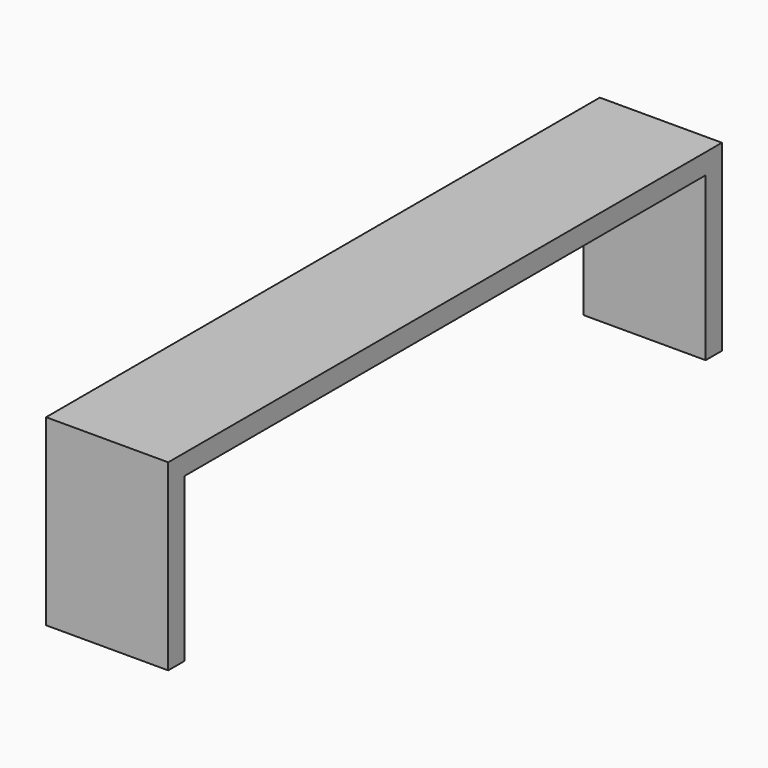
from build123d import *

# Parameters (mm, degrees)
F0_W     = 457.2
F0_H     = 2438.4
F1_DEPTH = 609.6
F2_T     = 76.2


with BuildPart() as f1:
    # F0 (on Top) → F1 (new body)
    with BuildSketch(Plane.XY):
        with Locations((-2668.6739219427, -1132.6131924457)):
            Rectangle(F0_W, F0_H)
    extrude(amount=F1_DEPTH)

    # F2
    f2_openings = [f1.faces().sort_by_distance(p)[0] for p in [
        (-2440.073922, -1132.613192, 304.8),
        (-2897.273922, -1132.613192, 304.8),
        (-2668.673922, -1132.613192, 0),
    ]]
    offset(amount=F2_T, openings=f2_openings, kind=Kind.INTERSECTION)


solid = f1.part
